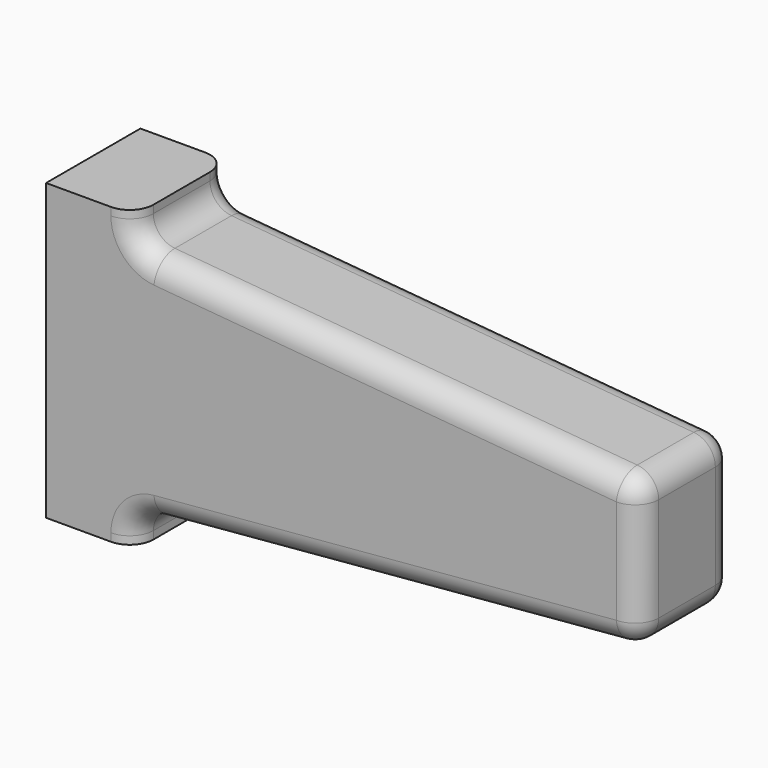
from build123d import *

# Parameters (mm, degrees)
F1_DEPTH = 12.7
F2_R     = 5.08
F3_R     = 5.08


with BuildPart() as f1:
    # F0 (on Front) → F1 (new body, symmetric)
    with BuildSketch(Plane.XZ):
        Polygon((0, -31.75), (0, -25.4), (0, 25.4), (0, 31.75), (-19.05, 31.75), (-19.05, -31.75), align=None)
        Polygon((0, 25.4), (0, -25.4), (108.871248, -15.875), (108.871248, 15.875), align=None)
    extrude(amount=F1_DEPTH, both=True)

    # F2
    f2_edges = [f1.edges().sort_by_distance(p)[0] for p in [
        (0, 0, 25.4),
        (0, 0, -25.4),
    ]]
    fillet(f2_edges, radius=F2_R)

    # F3
    f3_edges = [f1.edges().sort_by_distance(p)[0] for p in [
        (56.754249, 12.7, 20.434647),
        (108.871248, 0, 15.875),
        (56.754249, -12.7, 20.434647),
        (108.871248, -12.7, 0),
        (108.871248, 12.7, 0),
        (56.754249, -12.7, -20.434647),
        (56.754249, 12.7, -20.434647),
        (108.871248, 0, -15.875),
    ]]
    fillet(f3_edges, radius=F3_R)


solid = f1.part
